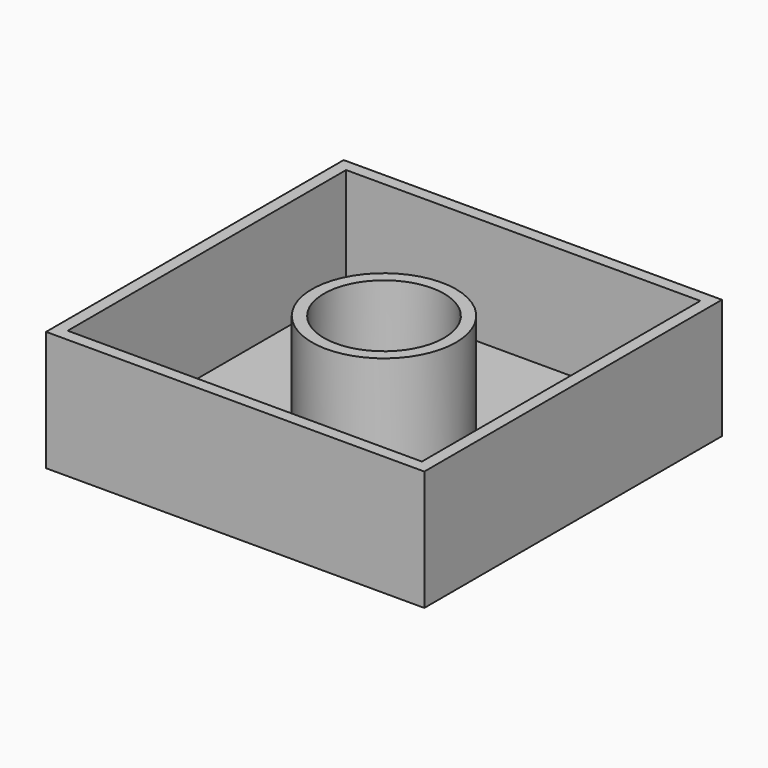
from build123d import *

# Parameters (mm, degrees)
F1_W     = 80
F1_H     = 78.6831277681
F1_R     = 12.7
F2_DEPTH = 25.4
F3_T     = -2.54


with BuildPart() as f2:
    # F1 (on face) → F2 (new body)
    with BuildSketch(Plane.XY):
        Rectangle(F1_W, F1_H)
        Circle(F1_R, mode=Mode.SUBTRACT)
    extrude(amount=F2_DEPTH)

    # F3
    f3_openings = [f2.faces().sort_by_distance(p)[0] for p in [
        (38.877902, 0, 25.4),
    ]]
    offset(amount=F3_T, openings=f3_openings)


solid = f2.part
